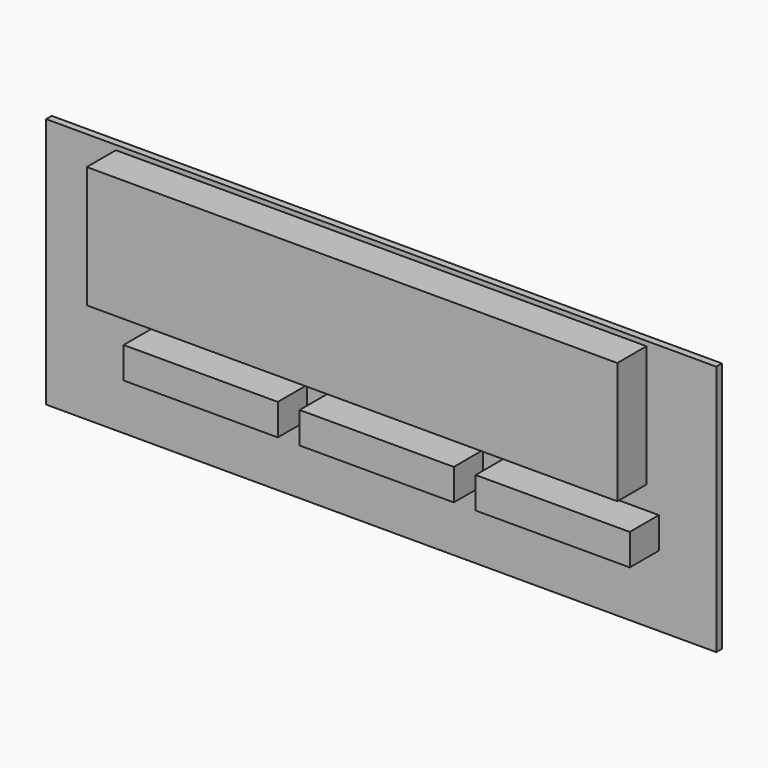
from build123d import *

# Parameters (mm, degrees)
F0_W     = 152.4
F0_H     = 57.15
F1_DEPTH = 1.6002
F2_W     = 120.65
F2_H     = 27.686
F2_W_2   = 35.052
F2_H_2   = 7.112
F3_DEPTH = 8.2804


with BuildPart() as f1:
    # F0 (on Front) → F1 (new body)
    with BuildSketch(Plane.XZ):
        Rectangle(F0_W, F0_H)
    extrude(amount=F1_DEPTH)

    # F2 (on face) → F3 (join)
    with BuildSketch(Plane.XZ.offset(1.6002)):
        with Locations((0, 13.6652)):
            Rectangle(F2_W, F2_H)
        with Locations((-34.417, -8.9408)):
            Rectangle(F2_W_2, F2_H_2)
        with Locations((5.603875, -8.9408)):
            Rectangle(F2_W_2, F2_H_2)
        with Locations((45.62475, -8.9408)):
            Rectangle(F2_W_2, F2_H_2)
    extrude(amount=F3_DEPTH)


solid = f1.part
